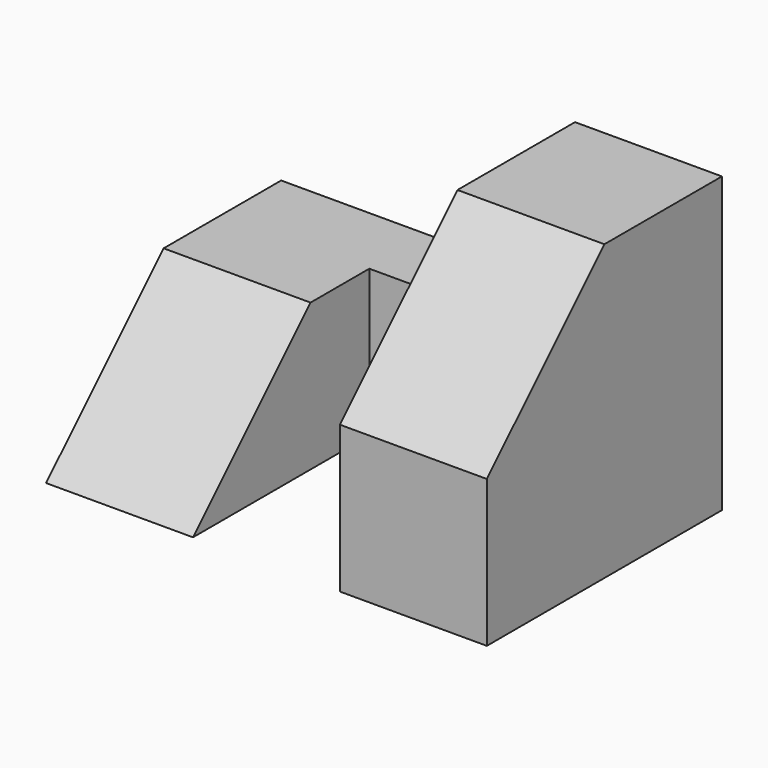
from build123d import *

# Parameters (mm, degrees)
F1_DEPTH = 20
F2_W     = 40
F2_H     = 20
F3_DEPTH = 40
F5_DEPTH = 40
F6_W     = 20
F6_H     = 30
F7_DEPTH = 25


with BuildPart() as f1:
    # F0 (on Right) → F1 (new body)
    with BuildSketch(Plane.YZ):
        Polygon((-3.7623762107, 0), (36.2376237893, 0), (36.2376237893, 40), (16.2376237893, 40), (-3.7623762107, 20), align=None)
    extrude(amount=-F1_DEPTH)

    # F2 (on face) → F3 (join)
    with BuildSketch(Plane(origin=(-20, 0, 0), x_dir=(0, -1, 0), z_dir=(-1, 0, 0))):
        with Locations((-16.2376237893, 10)):
            Rectangle(F2_W, F2_H)
    extrude(amount=F3_DEPTH)

    # F4 (on face) → F5 (cut)
    with BuildSketch(Plane(origin=(-60, 0, 0), x_dir=(0, -1, 0), z_dir=(-1, 0, 0))):
        Polygon((3.7623762107, 20), (-16.2376237893, 20), (3.7623762107, 0), align=None)
    extrude(amount=-F5_DEPTH, mode=Mode.SUBTRACT)

    # F6 (on face) → F7 (cut)
    with BuildSketch(Plane(origin=(0, 0, 0), x_dir=(1, 0, 0), z_dir=(0, 0, -1))):
        with Locations((-30, -11.2376237893)):
            Rectangle(F6_W, F6_H)
    extrude(amount=-F7_DEPTH, mode=Mode.SUBTRACT)


solid = f1.part
